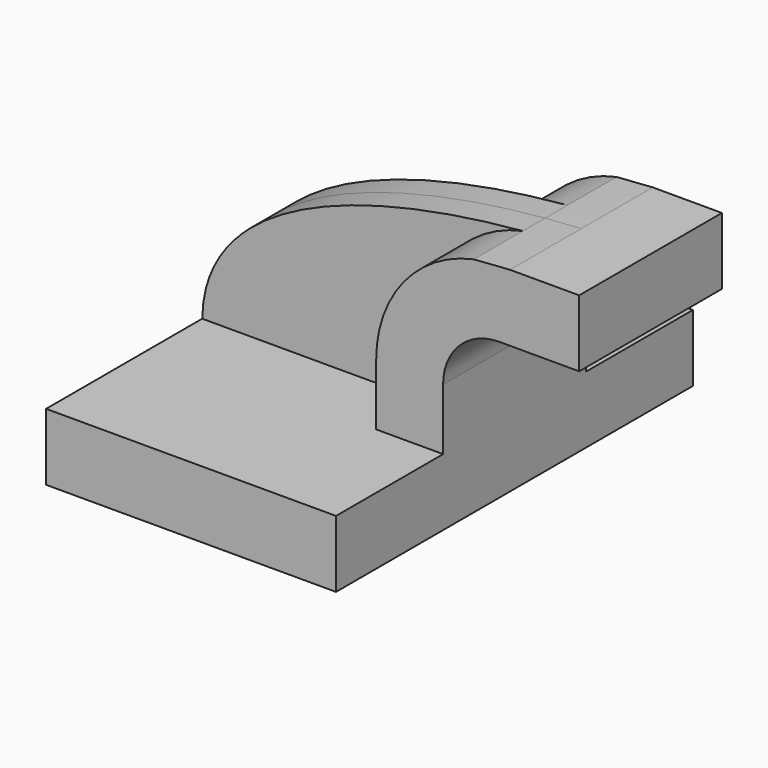
from build123d import *

# Parameters (mm, degrees)
F1_DEPTH = 63.5
F2_DEPTH = 25.4
F0_W     = 19.693976
F0_H     = 19.05
F3_DEPTH = 25.4
F4_DEPTH = 7.9375


with BuildPart() as f1:
    # F0 (on Front) → F1 (new body, symmetric)
    with BuildSketch(Plane.XZ):
        Polygon((-41.275, 9.525), (-41.275, -9.525), (41.275, -9.525), (41.275, 9.525), (22.225, 9.525), align=None)
    extrude(amount=F1_DEPTH, both=True)

    # F0 (on Front) → F2 (join, symmetric)
    with BuildSketch(Plane.XZ):
        with BuildLine():
            Line((22.225, 9.525), (41.275, 9.525))
            Line((41.275, 9.525), (41.275, 27.0002))
            ThreePointArc((41.275, 27.0002), (45.92468, 38.22552), (57.15, 42.8752))
            Line((57.15, 42.8752), (60.325, 42.8752))
            Line((60.325, 42.8752), (60.325, 61.9252))
            add(Edge.make_bspline(
                [(50.017181, 61.189065), (53.471327, 61.494815), (56.914684, 61.73877), (60.325, 61.9252)],
                knots=[106.078682, 106.078682, 106.078682, 106.078682, 114.316845, 114.316845, 114.316845, 114.316845], degree=3))
            ThreePointArc((50.017181, 61.189065), (30.049545, 49.030201), (22.225, 27.0002))
            Line((22.225, 27.0002), (22.225, 9.525))
        make_face()
    extrude(amount=F2_DEPTH, both=True)

    # F0 (on Front) → F3 (join, symmetric)
    with BuildSketch(Plane.XZ):
        with Locations((70.171988, 52.4002)):
            Rectangle(F0_W, F0_H)
    extrude(amount=F3_DEPTH, both=True)

    # F0 (on Front) → F4 (join, symmetric)
    with BuildSketch(Plane.XZ):
        with BuildLine():
            add(Edge.make_bspline(
                [(-41.275, 9.525), (-40.72633, 43.06928), (5.539875, 57.25208), (50.017181, 61.189065)],
                knots=[0, 0, 0, 0, 106.078682, 106.078682, 106.078682, 106.078682], degree=3))
            Line((-41.275, 9.525), (22.225, 9.525))
            Line((22.225, 9.525), (22.225, 27.0002))
            ThreePointArc((22.225, 27.0002), (30.049545, 49.030201), (50.017181, 61.189065))
        make_face()
    extrude(amount=F4_DEPTH, both=True)


solid = f1.part
